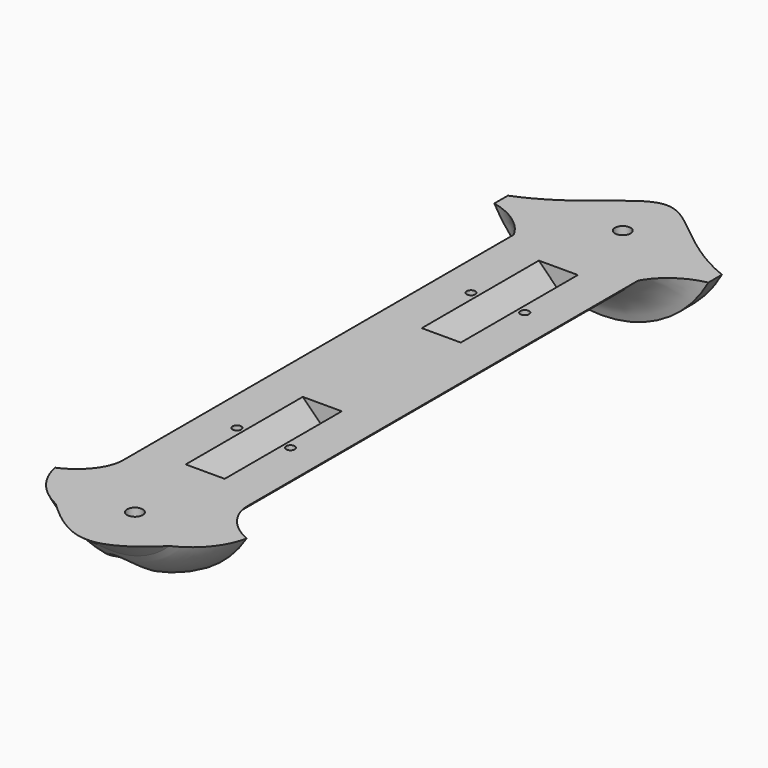
from build123d import *

# Parameters (mm, degrees)
SKETCH035_W     = 168.897315
SKETCH035_H     = 269.740737
POCKET011_DEPTH = 44
SKETCH038_R     = 0.9
POCKET012_DEPTH = 4
POCKET013_DEPTH = 30
POCKET014_DEPTH = 30
SKETCH046_R     = 1.6
POCKET017_DEPTH = 25
SKETCH047_R     = 3.15
POCKET018_DEPTH = 12
FILLET_R        = 1


with BuildPart() as part:
    # Sketch030 → Revolution003 (revolve)
    with BuildSketch(Plane.XY):
        with BuildLine():
            Line((17.5, 50), (17.5, -50))
            ThreePointArc((17.5, -50), (18.991017, -55.253305), (23.019443, -58.940056))
            ThreePointArc((16.729909, -68.709123), (20.858944, -64.458282), (23.019443, -58.940056))
            Line((16.729909, -68.709123), (8.152226, -80.547134))
            Line((8.152226, -80.547134), (0, -80.547134))
            Line((0, -80.547134), (0, -47.458003))
            Line((0, -47.458003), (0, 85))
            Line((2.996734, 85), (0, 85))
            Line((10, 85), (2.996734, 85))
            ThreePointArc((10, 85), (13.598169, 70.158901), (25, 60))
            Line((25.015494, 56.516322), (25, 60))
            Line((25.000088, 56.512672), (25.015494, 56.516322))
            ThreePointArc((25.000088, 56.512672), (20.448976, 54.178858), (17.5, 50))
        make_face()
    revolve(axis=Axis((0, 0, 0), (0, 1, 0)))

    # Sketch035 → Pocket011 (cut)
    with BuildSketch(Plane.XY.offset(-12)):
        with Locations((-0.125751, 0.819221)):
            Rectangle(SKETCH035_W, SKETCH035_H)
    extrude(amount=POCKET011_DEPTH, mode=Mode.SUBTRACT)

    # Sketch038 → Pocket012 (cut)
    with BuildSketch(Plane.XY.offset(-12)):
        with Locations((-5.5, 30)):
            Circle(SKETCH038_R)
        with Locations((-5.5, -30)):
            Circle(SKETCH038_R)
        with Locations((5.5, 30)):
            Circle(SKETCH038_R)
        with Locations((5.5, -30)):
            Circle(SKETCH038_R)
    extrude(amount=-POCKET012_DEPTH, mode=Mode.SUBTRACT)

    # Sketch039 → Pocket013 (cut)
    with BuildSketch(Plane.XZ.offset(45)):
        Polygon((-4, -12), (0, -16), (4, -12), align=None)
    extrude(amount=-POCKET013_DEPTH, mode=Mode.SUBTRACT)

    # Sketch040 → Pocket014 (cut)
    with BuildSketch(Plane.XZ.offset(-45.5)):
        Polygon((-4, -12), (0, -16), (4, -12), align=None)
    extrude(amount=POCKET014_DEPTH, mode=Mode.SUBTRACT)

    # Sketch046 → Pocket017 (cut)
    with BuildSketch(Plane.XY.offset(-11)):
        with Locations((0, 62)):
            Circle(SKETCH046_R)
        with Locations((0, -63)):
            Circle(SKETCH046_R)
    extrude(amount=-POCKET017_DEPTH, mode=Mode.SUBTRACT)

    # Sketch047 → Pocket018 (cut)
    with BuildSketch(Plane.XY.offset(-15)):
        with Locations((0, 62)):
            Circle(SKETCH047_R)
        with Locations((0, -63)):
            Circle(SKETCH047_R)
    extrude(amount=-POCKET018_DEPTH, mode=Mode.SUBTRACT)

    # Fillet
    fillet_edges = [part.edges().sort_by_distance(p)[0] for p in [
        (2.393604, -65.047721, -20.318846),
        (-1.90954, 64.505226, -18.099008),
    ]]
    fillet(fillet_edges, radius=FILLET_R)


solid = part.part
